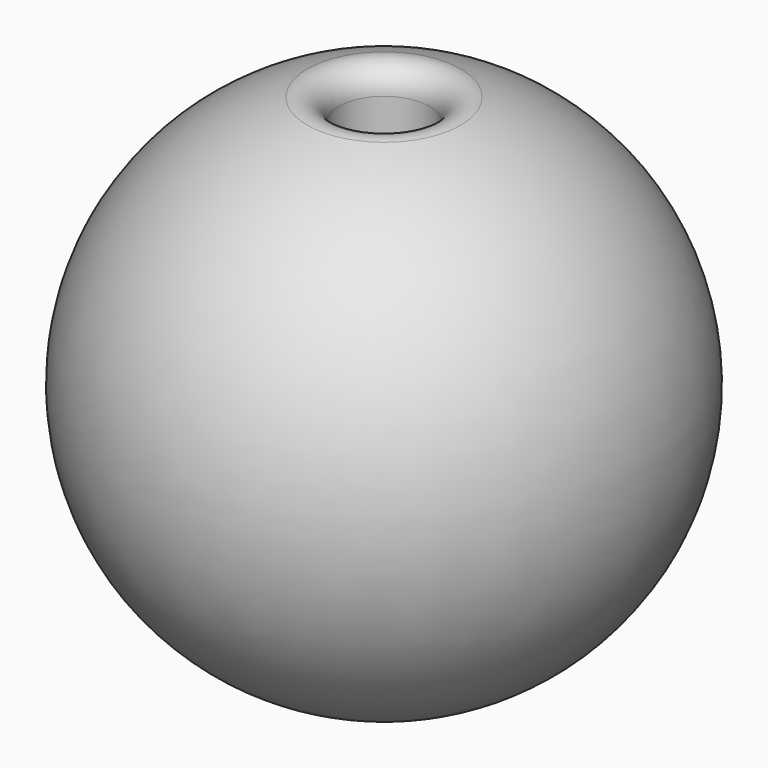
from build123d import *


with BuildPart() as f1:
    # F0 (on Front) → F1 (revolve)
    with BuildSketch(Plane.XZ):
        with BuildLine():
            ThreePointArc((-0.95, 4.785133), (-1.152091, 5.186693), (-1.595, 5.263647))
            ThreePointArc((-1.595, 5.263647), (-5.48688, 0.379663), (-2.304762, -4.993803))
            ThreePointArc((-2.304762, -4.993803), (-2.06526, -4.977395), (-1.95, -4.766812))
            Line((-1.95, -4.766812), (-1.95, -3.75))
            ThreePointArc((-1.95, -3.75), (-1.876777, -3.573223), (-1.7, -3.5))
            Line((-1.7, -3.5), (-1.1, -3.5))
            ThreePointArc((-1.1, -3.5), (-0.993934, -3.456066), (-0.95, -3.35))
            Line((-0.95, -3.35), (-0.95, 4.785133))
        make_face()
    revolve(axis=Axis((0, 0, 0.743363), (0, 0, -1)))


solid = f1.part
